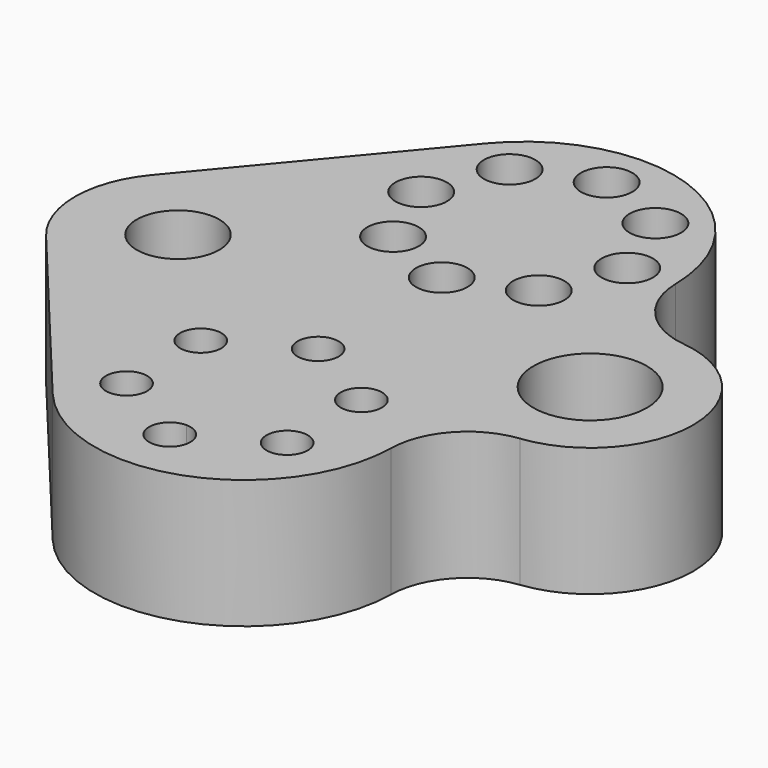
from build123d import *

# Parameters (mm, degrees)
F0_R     = 8
F0_R_2   = 11
F0_R_3   = 4
F0_R_4   = 5
F1_DEPTH = 25


with BuildPart() as f1:
    # F0 (on Top) → F1 (new body)
    with BuildSketch(Plane.XY):
        with BuildLine():
            ThreePointArc((28.995542, 34.508459), (28.998886, 34.254239), (29, 34))
            ThreePointArc((29, 34), (-9.862469, 6.728555), (-22.291842, 52.549226))
            Line((-22.291842, 52.549226), (-55.373684, 12.79257))
            ThreePointArc((-55.373684, 12.79257), (-60, 0), (-55.373684, -12.79257))
            Line((-55.373684, -12.79257), (-22.291842, -52.549226))
            ThreePointArc((-22.291842, -52.549226), (-9.862469, -6.728555), (29, -34))
            ThreePointArc((29, -34), (28.998886, -34.254239), (28.995542, -34.508459))
            ThreePointArc((28.995542, -34.508459), (32.885859, -24.690475), (42.281849, -19.869403))
            ThreePointArc((42.281849, -19.869403), (60, 0), (42.281849, 19.869403))
            ThreePointArc((42.281849, 19.869403), (32.885859, 24.690475), (28.995542, 34.508459))
        make_face()
        with Locations((-40, 0)):
            Circle(F0_R, mode=Mode.SUBTRACT)
        with Locations((40, 0)):
            Circle(F0_R_2, mode=Mode.SUBTRACT)
        with BuildLine():
            ThreePointArc((-22.291842, -52.549226), (9.623005, -61.35686), (28.995542, -34.508459))
            ThreePointArc((28.995542, -34.508459), (28.998886, -34.254239), (29, -34))
            ThreePointArc((29, -34), (-9.862469, -6.728555), (-22.291842, -52.549226))
        make_face()
        with Locations((-15.588457, -43)):
            Circle(F0_R_3, mode=Mode.SUBTRACT)
        with Locations((-15.588457, -25)):
            Circle(F0_R_3, mode=Mode.SUBTRACT)
        with BuildLine():
            ThreePointArc((0, -48), (2.828427, -49.171573), (4, -52))
            ThreePointArc((4, -52), (-2.828427, -54.828427), (0, -48))
        make_face(mode=Mode.SUBTRACT)
        with Locations((15.588457, -43)):
            Circle(F0_R_3, mode=Mode.SUBTRACT)
        with Locations((0, -16)):
            Circle(F0_R_3, mode=Mode.SUBTRACT)
        with Locations((15.588457, -25)):
            Circle(F0_R_3, mode=Mode.SUBTRACT)
        with BuildLine():
            ThreePointArc((-22.291842, 52.549226), (-9.862469, 6.728555), (29, 34))
            ThreePointArc((29, 34), (28.998886, 34.254239), (28.995542, 34.508459))
            ThreePointArc((28.995542, 34.508459), (9.623005, 61.35686), (-22.291842, 52.549226))
        make_face()
        with Locations((-14.142136, 19.857864)):
            Circle(F0_R_4, mode=Mode.SUBTRACT)
        with Locations((-20, 34)):
            Circle(F0_R_4, mode=Mode.SUBTRACT)
        with Locations((-14.142136, 48.142136)):
            Circle(F0_R_4, mode=Mode.SUBTRACT)
        with Locations((0, 14)):
            Circle(F0_R_4, mode=Mode.SUBTRACT)
        with Locations((14.142136, 19.857864)):
            Circle(F0_R_4, mode=Mode.SUBTRACT)
        with Locations((20, 34)):
            Circle(F0_R_4, mode=Mode.SUBTRACT)
        with Locations((0, 54)):
            Circle(F0_R_4, mode=Mode.SUBTRACT)
        with Locations((14.142136, 48.142136)):
            Circle(F0_R_4, mode=Mode.SUBTRACT)
    extrude(amount=F1_DEPTH)


solid = f1.part
